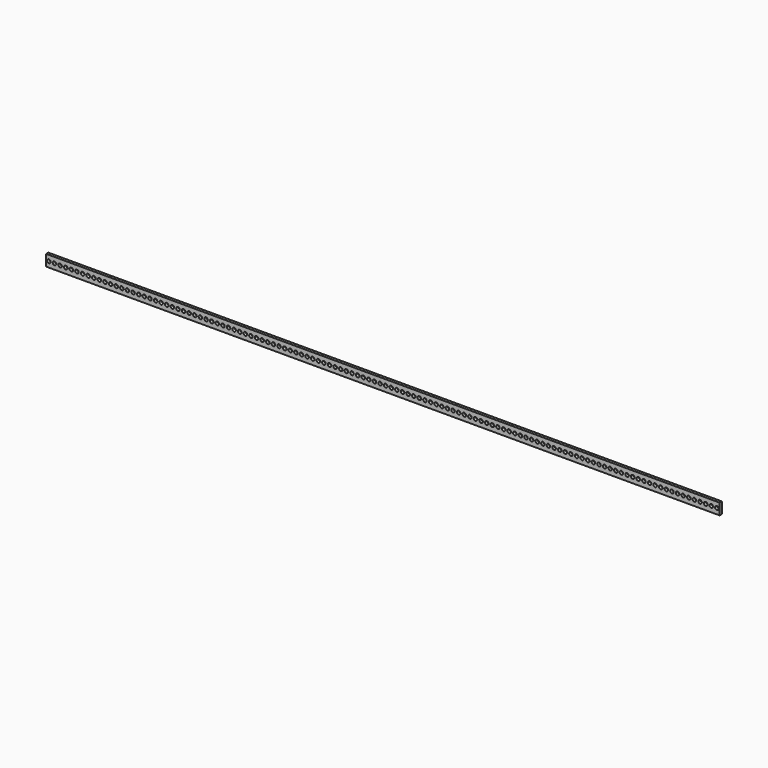
from build123d import *

# Parameters (mm, degrees)
F0_W     = 1524
F0_H     = 25.4
F0_R     = 4.0132
F1_DEPTH = 6.35


with BuildPart() as f1:
    # F0 (on Front) → F1 (new body)
    with BuildSketch(Plane.XZ):
        Rectangle(F0_W, F0_H)
        with Locations((-755.65, 0)):
            Circle(F0_R, mode=Mode.SUBTRACT)
        with Locations((-742.95, 0)):
            Circle(F0_R, mode=Mode.SUBTRACT)
        with Locations((-730.25, 0)):
            Circle(F0_R, mode=Mode.SUBTRACT)
        with Locations((-717.55, 0)):
            Circle(F0_R, mode=Mode.SUBTRACT)
        with Locations((-704.85, 0)):
            Circle(F0_R, mode=Mode.SUBTRACT)
        with Locations((-692.15, 0)):
            Circle(F0_R, mode=Mode.SUBTRACT)
        with Locations((-679.45, 0)):
            Circle(F0_R, mode=Mode.SUBTRACT)
        with Locations((-666.75, 0)):
            Circle(F0_R, mode=Mode.SUBTRACT)
        with Locations((-654.05, 0)):
            Circle(F0_R, mode=Mode.SUBTRACT)
        with Locations((-641.35, 0)):
            Circle(F0_R, mode=Mode.SUBTRACT)
        with Locations((-628.65, 0)):
            Circle(F0_R, mode=Mode.SUBTRACT)
        with Locations((-615.95, 0)):
            Circle(F0_R, mode=Mode.SUBTRACT)
        with Locations((-603.25, 0)):
            Circle(F0_R, mode=Mode.SUBTRACT)
        with Locations((-590.55, 0)):
            Circle(F0_R, mode=Mode.SUBTRACT)
        with Locations((-577.85, 0)):
            Circle(F0_R, mode=Mode.SUBTRACT)
        with Locations((-565.15, 0)):
            Circle(F0_R, mode=Mode.SUBTRACT)
        with Locations((-552.45, 0)):
            Circle(F0_R, mode=Mode.SUBTRACT)
        with Locations((-539.75, 0)):
            Circle(F0_R, mode=Mode.SUBTRACT)
        with Locations((-527.05, 0)):
            Circle(F0_R, mode=Mode.SUBTRACT)
        with Locations((-514.35, 0)):
            Circle(F0_R, mode=Mode.SUBTRACT)
        with Locations((-501.65, 0)):
            Circle(F0_R, mode=Mode.SUBTRACT)
        with Locations((-488.95, 0)):
            Circle(F0_R, mode=Mode.SUBTRACT)
        with Locations((-476.25, 0)):
            Circle(F0_R, mode=Mode.SUBTRACT)
        with Locations((-463.55, 0)):
            Circle(F0_R, mode=Mode.SUBTRACT)
        with Locations((-450.85, 0)):
            Circle(F0_R, mode=Mode.SUBTRACT)
        with Locations((-438.15, 0)):
            Circle(F0_R, mode=Mode.SUBTRACT)
        with Locations((-425.45, 0)):
            Circle(F0_R, mode=Mode.SUBTRACT)
        with Locations((-412.75, 0)):
            Circle(F0_R, mode=Mode.SUBTRACT)
        with Locations((-400.05, 0)):
            Circle(F0_R, mode=Mode.SUBTRACT)
        with Locations((-387.35, 0)):
            Circle(F0_R, mode=Mode.SUBTRACT)
        with Locations((-374.65, 0)):
            Circle(F0_R, mode=Mode.SUBTRACT)
        with Locations((-361.95, 0)):
            Circle(F0_R, mode=Mode.SUBTRACT)
        with Locations((-349.25, 0)):
            Circle(F0_R, mode=Mode.SUBTRACT)
        with Locations((-336.55, 0)):
            Circle(F0_R, mode=Mode.SUBTRACT)
        with Locations((-323.85, 0)):
            Circle(F0_R, mode=Mode.SUBTRACT)
        with Locations((-311.15, 0)):
            Circle(F0_R, mode=Mode.SUBTRACT)
        with Locations((-298.45, 0)):
            Circle(F0_R, mode=Mode.SUBTRACT)
        with Locations((-285.75, 0)):
            Circle(F0_R, mode=Mode.SUBTRACT)
        with Locations((-273.05, 0)):
            Circle(F0_R, mode=Mode.SUBTRACT)
        with Locations((-260.35, 0)):
            Circle(F0_R, mode=Mode.SUBTRACT)
        with Locations((-247.65, 0)):
            Circle(F0_R, mode=Mode.SUBTRACT)
        with Locations((-234.95, 0)):
            Circle(F0_R, mode=Mode.SUBTRACT)
        with Locations((-222.25, 0)):
            Circle(F0_R, mode=Mode.SUBTRACT)
        with Locations((-209.55, 0)):
            Circle(F0_R, mode=Mode.SUBTRACT)
        with Locations((-196.85, 0)):
            Circle(F0_R, mode=Mode.SUBTRACT)
        with Locations((-184.15, 0)):
            Circle(F0_R, mode=Mode.SUBTRACT)
        with Locations((-171.45, 0)):
            Circle(F0_R, mode=Mode.SUBTRACT)
        with Locations((-158.75, 0)):
            Circle(F0_R, mode=Mode.SUBTRACT)
        with Locations((-146.05, 0)):
            Circle(F0_R, mode=Mode.SUBTRACT)
        with Locations((-133.35, 0)):
            Circle(F0_R, mode=Mode.SUBTRACT)
        with Locations((-120.65, 0)):
            Circle(F0_R, mode=Mode.SUBTRACT)
        with Locations((-107.95, 0)):
            Circle(F0_R, mode=Mode.SUBTRACT)
        with Locations((-95.25, 0)):
            Circle(F0_R, mode=Mode.SUBTRACT)
        with Locations((-82.55, 0)):
            Circle(F0_R, mode=Mode.SUBTRACT)
        with Locations((-69.85, 0)):
            Circle(F0_R, mode=Mode.SUBTRACT)
        with Locations((-57.15, 0)):
            Circle(F0_R, mode=Mode.SUBTRACT)
        with Locations((-44.45, 0)):
            Circle(F0_R, mode=Mode.SUBTRACT)
        with Locations((-31.75, 0)):
            Circle(F0_R, mode=Mode.SUBTRACT)
        with Locations((-19.05, 0)):
            Circle(F0_R, mode=Mode.SUBTRACT)
        with Locations((-6.35, 0)):
            Circle(F0_R, mode=Mode.SUBTRACT)
        with Locations((6.35, 0)):
            Circle(F0_R, mode=Mode.SUBTRACT)
        with Locations((19.05, 0)):
            Circle(F0_R, mode=Mode.SUBTRACT)
        with Locations((31.75, 0)):
            Circle(F0_R, mode=Mode.SUBTRACT)
        with Locations((44.45, 0)):
            Circle(F0_R, mode=Mode.SUBTRACT)
        with Locations((57.15, 0)):
            Circle(F0_R, mode=Mode.SUBTRACT)
        with Locations((69.85, 0)):
            Circle(F0_R, mode=Mode.SUBTRACT)
        with Locations((82.55, 0)):
            Circle(F0_R, mode=Mode.SUBTRACT)
        with Locations((95.25, 0)):
            Circle(F0_R, mode=Mode.SUBTRACT)
        with Locations((107.95, 0)):
            Circle(F0_R, mode=Mode.SUBTRACT)
        with Locations((120.65, 0)):
            Circle(F0_R, mode=Mode.SUBTRACT)
        with Locations((133.35, 0)):
            Circle(F0_R, mode=Mode.SUBTRACT)
        with Locations((146.05, 0)):
            Circle(F0_R, mode=Mode.SUBTRACT)
        with Locations((158.75, 0)):
            Circle(F0_R, mode=Mode.SUBTRACT)
        with Locations((171.45, 0)):
            Circle(F0_R, mode=Mode.SUBTRACT)
        with Locations((184.15, 0)):
            Circle(F0_R, mode=Mode.SUBTRACT)
        with Locations((196.85, 0)):
            Circle(F0_R, mode=Mode.SUBTRACT)
        with Locations((209.55, 0)):
            Circle(F0_R, mode=Mode.SUBTRACT)
        with Locations((222.25, 0)):
            Circle(F0_R, mode=Mode.SUBTRACT)
        with Locations((234.95, 0)):
            Circle(F0_R, mode=Mode.SUBTRACT)
        with Locations((247.65, 0)):
            Circle(F0_R, mode=Mode.SUBTRACT)
        with Locations((260.35, 0)):
            Circle(F0_R, mode=Mode.SUBTRACT)
        with Locations((273.05, 0)):
            Circle(F0_R, mode=Mode.SUBTRACT)
        with Locations((285.75, 0)):
            Circle(F0_R, mode=Mode.SUBTRACT)
        with Locations((298.45, 0)):
            Circle(F0_R, mode=Mode.SUBTRACT)
        with Locations((311.15, 0)):
            Circle(F0_R, mode=Mode.SUBTRACT)
        with Locations((323.85, 0)):
            Circle(F0_R, mode=Mode.SUBTRACT)
        with Locations((336.55, 0)):
            Circle(F0_R, mode=Mode.SUBTRACT)
        with Locations((349.25, 0)):
            Circle(F0_R, mode=Mode.SUBTRACT)
        with Locations((361.95, 0)):
            Circle(F0_R, mode=Mode.SUBTRACT)
        with Locations((374.65, 0)):
            Circle(F0_R, mode=Mode.SUBTRACT)
        with Locations((387.35, 0)):
            Circle(F0_R, mode=Mode.SUBTRACT)
        with Locations((400.05, 0)):
            Circle(F0_R, mode=Mode.SUBTRACT)
        with Locations((412.75, 0)):
            Circle(F0_R, mode=Mode.SUBTRACT)
        with Locations((425.45, 0)):
            Circle(F0_R, mode=Mode.SUBTRACT)
        with Locations((438.15, 0)):
            Circle(F0_R, mode=Mode.SUBTRACT)
        with Locations((450.85, 0)):
            Circle(F0_R, mode=Mode.SUBTRACT)
        with Locations((463.55, 0)):
            Circle(F0_R, mode=Mode.SUBTRACT)
        with Locations((476.25, 0)):
            Circle(F0_R, mode=Mode.SUBTRACT)
        with Locations((488.95, 0)):
            Circle(F0_R, mode=Mode.SUBTRACT)
        with Locations((501.65, 0)):
            Circle(F0_R, mode=Mode.SUBTRACT)
        with Locations((514.35, 0)):
            Circle(F0_R, mode=Mode.SUBTRACT)
        with Locations((527.05, 0)):
            Circle(F0_R, mode=Mode.SUBTRACT)
        with Locations((539.75, 0)):
            Circle(F0_R, mode=Mode.SUBTRACT)
        with Locations((552.45, 0)):
            Circle(F0_R, mode=Mode.SUBTRACT)
        with Locations((565.15, 0)):
            Circle(F0_R, mode=Mode.SUBTRACT)
        with Locations((577.85, 0)):
            Circle(F0_R, mode=Mode.SUBTRACT)
        with Locations((590.55, 0)):
            Circle(F0_R, mode=Mode.SUBTRACT)
        with Locations((603.25, 0)):
            Circle(F0_R, mode=Mode.SUBTRACT)
        with Locations((615.95, 0)):
            Circle(F0_R, mode=Mode.SUBTRACT)
        with Locations((628.65, 0)):
            Circle(F0_R, mode=Mode.SUBTRACT)
        with Locations((641.35, 0)):
            Circle(F0_R, mode=Mode.SUBTRACT)
        with Locations((654.05, 0)):
            Circle(F0_R, mode=Mode.SUBTRACT)
        with Locations((666.75, 0)):
            Circle(F0_R, mode=Mode.SUBTRACT)
        with Locations((679.45, 0)):
            Circle(F0_R, mode=Mode.SUBTRACT)
        with Locations((692.15, 0)):
            Circle(F0_R, mode=Mode.SUBTRACT)
        with Locations((704.85, 0)):
            Circle(F0_R, mode=Mode.SUBTRACT)
        with Locations((717.55, 0)):
            Circle(F0_R, mode=Mode.SUBTRACT)
        with Locations((730.25, 0)):
            Circle(F0_R, mode=Mode.SUBTRACT)
        with Locations((742.95, 0)):
            Circle(F0_R, mode=Mode.SUBTRACT)
        with Locations((755.65, 0)):
            Circle(F0_R, mode=Mode.SUBTRACT)
    extrude(amount=F1_DEPTH)


solid = f1.part
